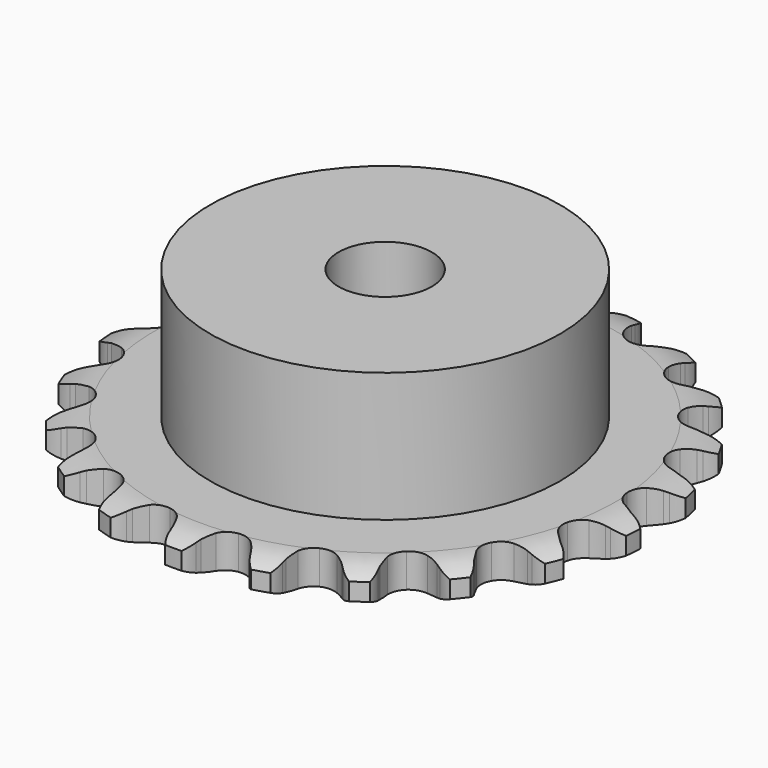
from build123d import *

# Parameters (mm, degrees)
PAD_DEPTH         = 2.9
SKETCH001_R       = 15
PAD001_DEPTH      = 14
SKETCH002_R       = 4
POCKET_DEPTH      = 0.0010001
POCKET_DEPTH_BACK = 14.001


with BuildPart() as part:
    # Sprocket → Pad (new body)
    with BuildSketch(Plane.XY):
        with BuildLine():
            ThreePointArc((-3.4783006244, 23.0770167987), (-2.6415838928, 22.4960272916), (-2.080477998, 21.6458485627))
            Line((-2.080477998, 21.6458485627), (-1.9211806336, 21.2617222717))
            ThreePointArc((-1.9211806336, 21.2617222717), (-1.663766121, 20.7421887026), (-1.3393418589, 20.2616408287))
            ThreePointArc((-1.3393418589, 20.2616408287), (-0.7455310664, 19.7789409557), (0, 19.6063319939))
            ThreePointArc((0, 19.6063319939), (0.7455310664, 19.7789409557), (1.3393418589, 20.2616408287))
            ThreePointArc((1.3393418589, 20.2616408287), (1.663766121, 20.7421887026), (1.9211806336, 21.2617222717))
            Line((1.9211806336, 21.2617222717), (2.080477998, 21.6458485627))
            ThreePointArc((2.080477998, 21.6458485627), (2.6415838928, 22.4960272916), (3.4783006244, 23.0770167987))
            ThreePointArc((3.4783006244, 23.0770167987), (4.1065947157, 22.2752124391), (4.3921776704, 21.2974158998))
            Line((4.3921776704, 21.2974158998), (4.431174688, 20.8834015398))
            ThreePointArc((4.431174688, 20.8834015398), (4.5240177883, 20.3110751298), (4.6923848183, 19.7562509198))
            ThreePointArc((4.6923848183, 19.7562509198), (5.1175359781, 19.119967244), (5.7790678064, 18.7352776746))
            ThreePointArc((5.7790678064, 18.7352776746), (6.542354404, 18.680468965), (7.2520621343, 18.9666950333))
            Line((7.2520621343, 18.9666950333), (8.102830625, 19.7508456743))
            ThreePointArc((8.102830625, 19.7508456743), (8.2317129394, 19.9140828969), (8.3682740663, 20.0709525895))
            ThreePointArc((8.3682740663, 20.0709525895), (9.1550461801, 20.717971397), (10.1258395984, 21.0265225843))
            ThreePointArc((10.1258395984, 21.0265225843), (10.4898843622, 20.0751472083), (10.4745690781, 19.0566143721))
            Line((10.4745690781, 19.0566143721), (10.3898006927, 18.6494989357))
            ThreePointArc((10.3898006927, 18.6494989357), (10.3098228638, 18.0752333981), (10.3071725122, 17.4954314177))
            ThreePointArc((10.3071725122, 17.4954314177), (10.5258874931, 16.7621005361), (11.0446400772, 16.1995117155))
            ThreePointArc((11.0446400772, 16.1995117155), (11.7578608421, 15.9221553289), (12.520404864, 15.9864751503))
            Line((12.520404864, 15.9864751503), (13.5645085566, 16.4850197636))
            ThreePointArc((13.5645085566, 16.4850197636), (13.7357800075, 16.6030160853), (13.9125122603, 16.7126643988))
            ThreePointArc((13.9125122603, 16.7126643988), (14.855042438, 17.0990328245), (15.8736532876, 17.107729565))
            ThreePointArc((15.8736532876, 17.107729565), (15.9411017491, 16.0913170496), (15.6262490563, 15.1225490289))
            Line((15.6262490563, 15.1225490289), (15.4252473109, 14.7585065093))
            ThreePointArc((15.4252473109, 14.7585065093), (15.1795549339, 14.2333278571), (15.0061226962, 13.6800660567))
            ThreePointArc((15.0061226962, 13.6800660567), (14.9989677122, 12.9148476363), (15.3288476085, 12.22434805))
            ThreePointArc((15.3288476085, 12.22434805), (15.9286297459, 11.7490883186), (16.6762546766, 11.5857867946))
            Line((16.6762546766, 11.5857867946), (17.8209203761, 11.7544275035))
            ThreePointArc((17.8209203761, 11.7544275035), (18.0193627434, 11.8166984334), (18.2205626858, 11.869382634))
            ThreePointArc((18.2205626858, 11.869382634), (19.235102985, 11.9607701476), (20.2110232218, 11.6688396977))
            ThreePointArc((20.2110232218, 11.6688396977), (19.9758822892, 10.6777027556), (19.3894682311, 9.8447788402))
            Line((19.3894682311, 9.8447788402), (19.090093013, 9.5561560128))
            ThreePointArc((19.090093013, 9.5561560128), (18.7005169337, 9.1267286741), (18.3717130252, 8.6491667926))
            ThreePointArc((18.3717130252, 8.6491667926), (18.1393238281, 7.9200538482), (18.2510197603, 7.1629974147))
            ThreePointArc((18.2510197603, 7.1629974147), (18.6840699951, 6.5320632511), (19.3503460786, 6.1556504388))
            Line((19.3503460786, 6.1556504388), (20.4938652144, 5.9794027763))
            ThreePointArc((20.4938652144, 5.9794027763), (20.7018460229, 5.9804152689), (20.9096361571, 5.9714541342))
            ThreePointArc((20.9096361571, 5.9714541342), (21.9060402199, 5.7597405542), (22.7525550481, 5.1931222154))
            ThreePointArc((22.7525550481, 5.1931222154), (22.2357180251, 4.3153277133), (21.4298480644, 3.6922568485))
            Line((21.4298480644, 3.6922568485), (21.0587001754, 3.5046991181))
            ThreePointArc((21.0587001754, 3.5046991181), (20.5598559381, 3.2091795964), (20.1048960291, 2.8497511028))
            ThreePointArc((20.1048960291, 2.8497511028), (19.6679214189, 2.221528519), (19.5515087131, 1.4651830248))
            ThreePointArc((19.5515087131, 1.4651830248), (19.7793486316, 0.7346356983), (20.305074314, 0.1785575279))
            Line((20.305074314, 0.1785575279), (21.3458401925, -0.3269181278))
            ThreePointArc((21.3458401925, -0.3269181278), (21.5448794347, -0.3872540368), (21.7407966954, -0.4570642708))
            ThreePointArc((21.7407966954, -0.4570642708), (22.6305296482, -0.9530672637), (23.2724225105, -1.7440269653))
            ThreePointArc((23.2724225105, -1.7440269653), (22.5198126347, -2.4304831337), (21.5660918538, -2.7883383675))
            Line((21.5660918538, -2.7883383675), (21.1561494127, -2.8581656734))
            ThreePointArc((21.1561494127, -2.8581656734), (20.592361517, -2.9935191717), (20.0516707919, -3.2028774785))
            ThreePointArc((20.0516707919, -3.2028774785), (19.4489378803, -3.6743893681), (19.1147603163, -4.3628193067))
            ThreePointArc((19.1147603163, -4.3628193067), (19.1171453419, -5.1280674602), (19.4556075892, -5.8144010029))
            Line((19.4556075892, -5.8144010029), (20.3011435949, -6.6041909215))
            ThreePointArc((20.3011435949, -6.6041909215), (20.4735557605, -6.7205141219), (20.6401920394, -6.8449705094))
            ThreePointArc((20.6401920394, -6.8449705094), (21.3441972048, -7.5811908727), (21.7244331034, -8.5262116966))
            ThreePointArc((21.7244331034, -8.5262116966), (20.8029230652, -8.9603348884), (19.7860937408, -9.021177483))
            Line((19.7860937408, -9.021177483), (19.3737819324, -8.9670699019))
            ThreePointArc((19.3737819324, -8.9670699019), (18.795145407, -8.9302306246), (18.2167666095, -8.9709163402))
            ThreePointArc((18.2167666095, -8.9709163402), (17.5018308608, -9.243821635), (16.9795815817, -9.8031659969))
            ThreePointArc((16.9795815817, -9.8031659969), (16.7562997944, -10.5351193207), (16.8774247506, -11.2907244885))
            Line((16.8774247506, -11.2907244885), (17.4526012987, -12.2946523699))
            ThreePointArc((17.4526012987, -12.2946523699), (17.5830668104, -12.4566270348), (17.7056157427, -12.6246710797))
            ThreePointArc((17.7056157427, -12.6246710797), (18.1613391723, -13.5356924032), (18.2461324791, -14.5508051021))
            ThreePointArc((18.2461324791, -14.5508051021), (17.2376024891, -14.6940215664), (16.248014369, -14.4524453904))
            Line((16.248014369, -14.4524453904), (15.8699689069, -14.2792106183))
            ThreePointArc((15.8699689069, -14.2792106183), (15.3278981464, -14.0734518968), (14.7632227709, -13.9418499169))
            ThreePointArc((14.7632227709, -13.9418499169), (13.9996093638, -13.9918997838), (13.3356925099, -14.3724583678))
            ThreePointArc((13.3356925099, -14.3724583678), (12.9065834763, -15.0060795969), (12.7996086575, -15.7638175548))
            Line((12.7996086575, -15.7638175548), (13.0533187877, -16.892680001))
            ThreePointArc((13.0533187877, -16.892680001), (13.1302452121, -17.0859139707), (13.1978177875, -17.282614222))
            ThreePointArc((13.1978177875, -17.282614222), (13.3647664546, -18.2874882633), (13.1465829121, -19.282495619))
            ThreePointArc((13.1465829121, -19.282495619), (12.140645286, -19.1220799446), (11.2662276173, -18.5995501014))
            Line((11.2662276173, -18.5995501014), (10.9560394999, -18.322580808))
            ThreePointArc((10.9560394999, -18.322580808), (10.4986998702, -17.9661852076), (9.9979018018, -17.6739889456))
            ThreePointArc((9.9979018018, -17.6739889456), (9.2534611385, -17.4967362344), (8.5068686359, -17.6646947403))
            ThreePointArc((8.5068686359, -17.6646947403), (7.9100605767, -18.1436838479), (7.5844911651, -18.836226253))
            Line((7.5844911651, -18.836226253), (7.4941916188, -19.9897188817))
            ThreePointArc((7.4941916188, -19.9897188817), (7.5107437056, -20.1970424699), (7.5173358042, -20.4049212472))
            ThreePointArc((7.5173358042, -20.4049212472), (7.3806755872, -21.4143605378), (6.8789017605, -22.3008517804))
            ThreePointArc((6.8789017605, -22.3008517804), (5.9649384708, -21.8510576038), (5.2833871008, -21.094003163))
            Line((5.2833871008, -21.094003163), (5.0686179035, -20.7379092856))
            ThreePointArc((5.0686179035, -20.7379092856), (4.7366460377, -20.2625441194), (4.3442233825, -19.8357164955))
            ThreePointArc((4.3442233825, -19.8357164955), (3.685102283, -19.4469108874), (2.9221721518, -19.3873454648))
            ThreePointArc((2.9221721518, -19.3873454648), (2.2106940822, -19.6691421667), (1.6954583486, -20.2349535872))
            Line((1.6954583486, -20.2349535872), (1.2691726369, -21.3105835163))
            ThreePointArc((1.2691726369, -21.3105835163), (1.2238796605, -21.5135751125), (1.1689055453, -21.7141614741))
            ThreePointArc((1.1689055453, -21.7141614741), (0.7407793042, -22.6384729032), (0, -23.3376793954))
            ThreePointArc((0, -23.3376793954), (-0.7407793042, -22.6384729032), (-1.1689055453, -21.7141614741))
            Line((-1.1689055453, -21.7141614741), (-1.2691726369, -21.3105835163))
            ThreePointArc((-1.2691726369, -21.3105835163), (-1.4462795817, -20.7584870655), (-1.6954583486, -20.2349535872))
            ThreePointArc((-1.6954583486, -20.2349535872), (-2.2106940822, -19.6691421667), (-2.9221721518, -19.3873454648))
            ThreePointArc((-2.9221721518, -19.3873454648), (-3.685102283, -19.4469108874), (-4.3442233825, -19.8357164955))
            Line((-4.3442233825, -19.8357164955), (-5.0686179035, -20.7379092856))
            ThreePointArc((-5.0686179035, -20.7379092856), (-5.1717314634, -20.9185321955), (-5.2833871008, -21.094003163))
            ThreePointArc((-5.2833871008, -21.094003163), (-5.9649384708, -21.8510576038), (-6.8789017605, -22.3008517804))
            ThreePointArc((-6.8789017605, -22.3008517804), (-7.3806755872, -21.4143605378), (-7.5173358042, -20.4049212472))
            Line((-7.5173358042, -20.4049212472), (-7.4941916188, -19.9897188817))
            ThreePointArc((-7.4941916188, -19.9897188817), (-7.5006969133, -19.4099473387), (-7.5844911651, -18.836226253))
            ThreePointArc((-7.5844911651, -18.836226253), (-7.9100605767, -18.1436838479), (-8.5068686359, -17.6646947403))
            ThreePointArc((-8.5068686359, -17.6646947403), (-9.2534611385, -17.4967362344), (-9.9979018018, -17.6739889456))
            Line((-9.9979018018, -17.6739889456), (-10.9560394999, -18.322580808))
            ThreePointArc((-10.9560394999, -18.322580808), (-11.1078115509, -18.4647858935), (-11.2662276173, -18.5995501014))
            ThreePointArc((-11.2662276173, -18.5995501014), (-12.140645286, -19.1220799446), (-13.1465829121, -19.282495619))
            ThreePointArc((-13.1465829121, -19.282495619), (-13.3647664546, -18.2874882633), (-13.1978177875, -17.282614222))
            Line((-13.1978177875, -17.282614222), (-13.0533187877, -16.892680001))
            ThreePointArc((-13.0533187877, -16.892680001), (-12.8886444079, -16.3367486118), (-12.7996086575, -15.7638175548))
            ThreePointArc((-12.7996086575, -15.7638175548), (-12.9065834763, -15.0060795969), (-13.3356925099, -14.3724583678))
            ThreePointArc((-13.3356925099, -14.3724583678), (-13.9996093638, -13.9918997838), (-14.7632227709, -13.9418499169))
            Line((-14.7632227709, -13.9418499169), (-15.8699689069, -14.2792106183))
            ThreePointArc((-15.8699689069, -14.2792106183), (-16.0569138364, -14.3703623334), (-16.248014369, -14.4524453904))
            ThreePointArc((-16.248014369, -14.4524453904), (-17.2376024891, -14.6940215664), (-18.2461324791, -14.5508051021))
            ThreePointArc((-18.2461324791, -14.5508051021), (-18.1613391723, -13.5356924032), (-17.7056157427, -12.6246710797))
            Line((-17.7056157427, -12.6246710797), (-17.4526012987, -12.2946523699))
            ThreePointArc((-17.4526012987, -12.2946523699), (-17.131379286, -11.811958078), (-16.8774247506, -11.2907244885))
            ThreePointArc((-16.8774247506, -11.2907244885), (-16.7562997944, -10.5351193207), (-16.9795815817, -9.8031659969))
            ThreePointArc((-16.9795815817, -9.8031659969), (-17.5018308608, -9.243821635), (-18.2167666095, -8.9709163402))
            Line((-18.2167666095, -8.9709163402), (-19.3737819324, -8.9670699019))
            ThreePointArc((-19.3737819324, -8.9670699019), (-19.5792888628, -8.9990690168), (-19.7860937408, -9.021177483))
            ThreePointArc((-19.7860937408, -9.021177483), (-20.8029230652, -8.9603348884), (-21.7244331034, -8.5262116966))
            ThreePointArc((-21.7244331034, -8.5262116966), (-21.3441972048, -7.5811908727), (-20.6401920394, -6.8449705094))
            Line((-20.6401920394, -6.8449705094), (-20.3011435949, -6.6041909215))
            ThreePointArc((-20.3011435949, -6.6041909215), (-19.8519159348, -6.2376232331), (-19.4556075892, -5.8144010029))
            ThreePointArc((-19.4556075892, -5.8144010029), (-19.1171453419, -5.1280674602), (-19.1147603163, -4.3628193067))
            ThreePointArc((-19.1147603163, -4.3628193067), (-19.4489378803, -3.6743893681), (-20.0516707919, -3.2028774785))
            Line((-20.0516707919, -3.2028774785), (-21.1561494127, -2.8581656734))
            ThreePointArc((-21.1561494127, -2.8581656734), (-21.3619581515, -2.8281689262), (-21.5660918538, -2.7883383675))
            ThreePointArc((-21.5660918538, -2.7883383675), (-22.5198126347, -2.4304831337), (-23.2724225105, -1.7440269653))
            ThreePointArc((-23.2724225105, -1.7440269653), (-22.6305296482, -0.9530672637), (-21.7407966954, -0.4570642708))
            Line((-21.7407966954, -0.4570642708), (-21.3458401925, -0.3269181278))
            ThreePointArc((-21.3458401925, -0.3269181278), (-20.808522734, -0.1090481905), (-20.305074314, 0.1785575279))
            ThreePointArc((-20.305074314, 0.1785575279), (-19.7793486316, 0.7346356983), (-19.5515087131, 1.4651830248))
            ThreePointArc((-19.5515087131, 1.4651830248), (-19.6679214189, 2.221528519), (-20.1048960291, 2.8497511028))
            Line((-20.1048960291, 2.8497511028), (-21.0587001754, 3.5046991181))
            ThreePointArc((-21.0587001754, 3.5046991181), (-21.2465237131, 3.5940263846), (-21.4298480644, 3.6922568485))
            ThreePointArc((-21.4298480644, 3.6922568485), (-22.2357180251, 4.3153277133), (-22.7525550481, 5.1931222154))
            ThreePointArc((-22.7525550481, 5.1931222154), (-21.9060402199, 5.7597405542), (-20.9096361571, 5.9714541342))
            Line((-20.9096361571, 5.9714541342), (-20.4938652144, 5.9794027763))
            ThreePointArc((-20.4938652144, 5.9794027763), (-19.9162009716, 6.0292162623), (-19.3503460786, 6.1556504388))
            ThreePointArc((-19.3503460786, 6.1556504388), (-18.6840699951, 6.5320632511), (-18.2510197603, 7.1629974147))
            ThreePointArc((-18.2510197603, 7.1629974147), (-18.1393238281, 7.9200538482), (-18.3717130252, 8.6491667926))
            Line((-18.3717130252, 8.6491667926), (-19.090093013, 9.5561560128))
            ThreePointArc((-19.090093013, 9.5561560128), (-19.2432424038, 9.6968766791), (-19.3894682311, 9.8447788402))
            ThreePointArc((-19.3894682311, 9.8447788402), (-19.9758822892, 10.6777027556), (-20.2110232218, 11.6688396977))
            ThreePointArc((-20.2110232218, 11.6688396977), (-19.235102985, 11.9607701476), (-18.2205626858, 11.869382634))
            Line((-18.2205626858, 11.869382634), (-17.8209203761, 11.7544275035))
            ThreePointArc((-17.8209203761, 11.7544275035), (-17.254237352, 11.6317583915), (-16.6762546766, 11.5857867946))
            ThreePointArc((-16.6762546766, 11.5857867946), (-15.9286297459, 11.7490883186), (-15.3288476085, 12.22434805))
            ThreePointArc((-15.3288476085, 12.22434805), (-14.9989677122, 12.9148476363), (-15.0061226962, 13.6800660567))
            Line((-15.0061226962, 13.6800660567), (-15.4252473109, 14.7585065093))
            ThreePointArc((-15.4252473109, 14.7585065093), (-15.5301145595, 14.9381169266), (-15.6262490563, 15.1225490289))
            ThreePointArc((-15.6262490563, 15.1225490289), (-15.9411017491, 16.0913170496), (-15.8736532876, 17.107729565))
            ThreePointArc((-15.8736532876, 17.107729565), (-14.855042438, 17.0990328245), (-13.9125122603, 16.7126643988))
            Line((-13.9125122603, 16.7126643988), (-13.5645085566, 16.4850197636))
            ThreePointArc((-13.5645085566, 16.4850197636), (-13.0591590248, 16.2007677424), (-12.520404864, 15.9864751503))
            ThreePointArc((-12.520404864, 15.9864751503), (-11.7578608421, 15.9221553289), (-11.0446400772, 16.1995117155))
            ThreePointArc((-11.0446400772, 16.1995117155), (-10.5258874931, 16.7621005361), (-10.3071725122, 17.4954314177))
            Line((-10.3071725122, 17.4954314177), (-10.3898006927, 18.6494989357))
            ThreePointArc((-10.3898006927, 18.6494989357), (-10.4370678837, 18.8520399303), (-10.4745690781, 19.0566143721))
            ThreePointArc((-10.4745690781, 19.0566143721), (-10.4898843622, 20.0751472083), (-10.1258395984, 21.0265225843))
            ThreePointArc((-10.1258395984, 21.0265225843), (-9.1550461801, 20.717971397), (-8.3682740663, 20.0709525895))
            Line((-8.3682740663, 20.0709525895), (-8.102830625, 19.7508456743))
            ThreePointArc((-8.102830625, 19.7508456743), (-7.7037171091, 19.3302677835), (-7.2520621343, 18.9666950333))
            ThreePointArc((-7.2520621343, 18.9666950333), (-6.542354404, 18.680468965), (-5.7790678064, 18.7352776746))
            ThreePointArc((-5.7790678064, 18.7352776746), (-5.1175359781, 19.119967244), (-4.6923848183, 19.7562509198))
            Line((-4.6923848183, 19.7562509198), (-4.431174688, 20.8834015398))
            ThreePointArc((-4.431174688, 20.8834015398), (-4.4166419242, 21.0908764554), (-4.3921776704, 21.2974158998))
            ThreePointArc((-4.3921776704, 21.2974158998), (-4.1065947157, 22.2752124391), (-3.4783006244, 23.0770167987))
        make_face()
    extrude(amount=PAD_DEPTH)

    # Sketch → Groove (revolve, cut)
    with BuildSketch(Plane.XZ):
        with BuildLine():
            Line((19.7896735578, 0), (22.7, 0))
            Line((25.6103264422, 0), (22.7, 0))
            Line((25.6103264422, 2.9), (25.6103264422, 0))
            Line((22.7, 2.9), (25.6103264422, 2.9))
            Line((19.7896735578, 2.9), (22.7, 2.9))
            ThreePointArc((22.7, 2.2), (21.2863365125, 2.7225396744), (19.7896735578, 2.9))
            Line((22.7, 0.7), (22.7, 2.2))
            ThreePointArc((19.7896735578, 0), (21.2863365125, 0.1774603256), (22.7, 0.7))
        make_face()
    revolve(axis=Axis((0, 0, 0), (0, 0, 1)), mode=Mode.SUBTRACT)

    # Sketch001 → Pad001 (join)
    with BuildSketch(Plane.XY):
        Circle(SKETCH001_R)
    extrude(amount=PAD001_DEPTH)

    # Sketch002 → Pocket (cut, two sides)
    with BuildSketch(Plane.XY) as pocket_sk:
        Circle(SKETCH002_R)
    extrude(amount=-POCKET_DEPTH, mode=Mode.SUBTRACT)
    extrude(pocket_sk.sketch, amount=POCKET_DEPTH_BACK, mode=Mode.SUBTRACT)


solid = part.part
